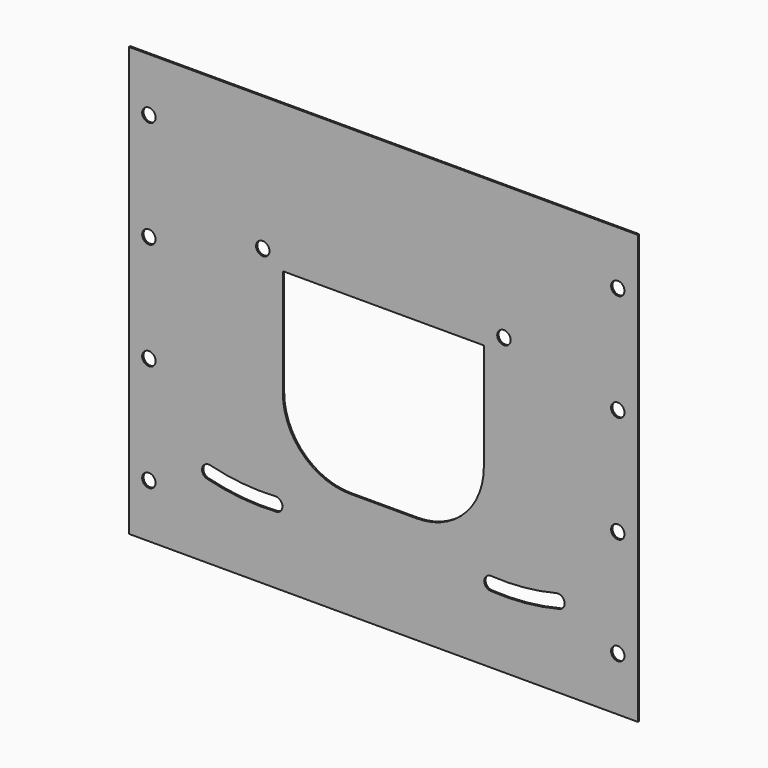
from build123d import *

# Parameters (mm, degrees)
F0_R     = 6.35
F1_DEPTH = 1.5875
F2_W     = 482.6
F2_H     = 101.6
F2_R     = 6.35
F3_DEPTH = 1.5875


with BuildPart() as f1:
    # F0 (on Front) → F1 (new body)
    with BuildSketch(Plane.XZ):
        Polygon((0, 304.8), (0, 0), (482.6, 0), (482.6, 304.8), (349.25, 304.8), (336.55, 304.8), (146.05, 304.8), align=None)
        with Locations((19.05, 50.8)):
            Circle(F0_R, mode=Mode.SUBTRACT)
        with BuildLine():
            ThreePointArc((139.677532, 63.87253), (106.72929, 64.453708), (74.253289, 70.042424))
            ThreePointArc((74.253289, 70.042424), (69.647088, 77.751374), (77.356037, 82.357576))
            ThreePointArc((77.356037, 82.357576), (107.921685, 77.097608), (138.931795, 76.550617))
            ThreePointArc((138.931795, 76.550617), (145.643707, 70.584442), (139.677532, 63.87253))
        make_face(mode=Mode.SUBTRACT)
        with BuildLine():
            ThreePointArc((405.243963, 82.357576), (412.952912, 77.751374), (408.346711, 70.042424))
            ThreePointArc((408.346711, 70.042424), (375.87071, 64.453708), (342.922468, 63.87253))
            ThreePointArc((342.922468, 63.87253), (336.956293, 70.584442), (343.668205, 76.550617))
            ThreePointArc((343.668205, 76.550617), (374.678315, 77.097608), (405.243963, 82.357576))
        make_face(mode=Mode.SUBTRACT)
        with Locations((463.55, 50.8)):
            Circle(F0_R, mode=Mode.SUBTRACT)
        with Locations((19.05, 152.4)):
            Circle(F0_R, mode=Mode.SUBTRACT)
        with Locations((19.05, 254)):
            Circle(F0_R, mode=Mode.SUBTRACT)
        with Locations((127, 279.4)):
            Circle(F0_R, mode=Mode.SUBTRACT)
        with BuildLine():
            Line((146.05, 165.1), (146.05, 266.7))
            Line((146.05, 266.7), (336.55, 266.7))
            Line((336.55, 266.7), (336.55, 165.1))
            ThreePointArc((336.55, 165.1), (317.951281, 120.198719), (273.05, 101.6))
            Line((273.05, 101.6), (209.55, 101.6))
            ThreePointArc((209.55, 101.6), (164.648719, 120.198719), (146.05, 165.1))
        make_face(mode=Mode.SUBTRACT)
        with Locations((463.55, 152.4)):
            Circle(F0_R, mode=Mode.SUBTRACT)
        with Locations((355.6, 279.4)):
            Circle(F0_R, mode=Mode.SUBTRACT)
        with Locations((463.55, 254)):
            Circle(F0_R, mode=Mode.SUBTRACT)
    extrude(amount=F1_DEPTH)

    # F2 (on face) → F3 (join)
    with BuildSketch(Plane.XZ.offset(1.5875)):
        with Locations((241.3, 355.6)):
            Rectangle(F2_W, F2_H)
        with Locations((19.05, 355.6)):
            Circle(F2_R, mode=Mode.SUBTRACT)
        with Locations((463.55, 355.6)):
            Circle(F2_R, mode=Mode.SUBTRACT)
    extrude(amount=-F3_DEPTH)


solid = f1.part
